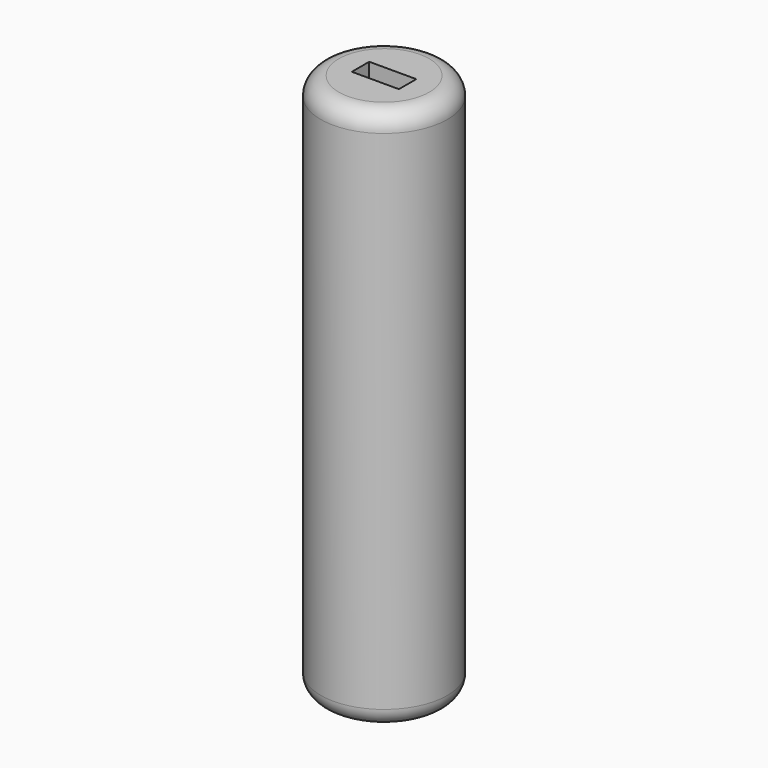
from build123d import *

# Parameters (mm, degrees)
F0_R     = 17.5
F1_DEPTH = 150
F2_W     = 13
F2_H     = 6
F3_DEPTH = 87
F4_R     = 1.960614
F5_DEPTH = 20
F6_R     = 5


with BuildPart() as f1:
    # F0 (on Top) → F1 (new body)
    with BuildSketch(Plane.XY):
        Circle(F0_R)
    extrude(amount=F1_DEPTH)

    # F2 (on face) → F3 (cut)
    with BuildSketch(Plane.XY.offset(150)):
        Rectangle(F2_W, F2_H)
    extrude(amount=-F3_DEPTH, mode=Mode.SUBTRACT)

    # F4 (on face) → F5 (cut)
    with BuildSketch(Plane.XY.offset(63)):
        Circle(F4_R)
    extrude(amount=-F5_DEPTH, mode=Mode.SUBTRACT)

    # F6
    f6_edges = [f1.edges().sort_by_distance(p)[0] for p in [
        (-17.5, 0, 150),
        (-17.5, 0, 0),
    ]]
    fillet(f6_edges, radius=F6_R)


solid = f1.part
